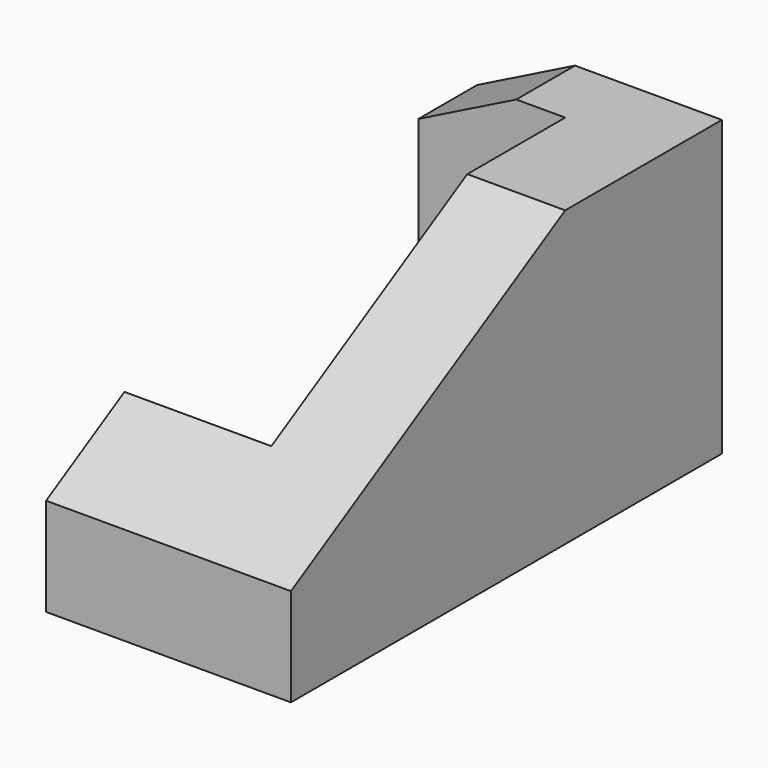
from build123d import *

# Parameters (mm, degrees)
F1_DEPTH = 60
F3_DEPTH = 60
F5_DEPTH = 15


with BuildPart() as f1:
    # F0 (on Top) → F1 (new body)
    with BuildSketch(Plane.XY):
        Polygon((-25, -55), (25, -55), (25, 55), (-25, 55), (-25, 40), (5, 40), (5, -35), (-25, -35), align=None)
    extrude(amount=F1_DEPTH)

    # F2 (on face) → F3 (cut)
    with BuildSketch(Plane.YZ.offset(25)):
        Polygon((-55, 60), (-55, 20), (15, 60), align=None)
    extrude(amount=-F3_DEPTH, mode=Mode.SUBTRACT)

    # F4 (on face) → F5 (cut)
    with BuildSketch(Plane(origin=(0, 55, 0), x_dir=(-1, 0, 0), z_dir=(0, 1, 0))):
        Polygon((25, 60), (5, 60), (25, 50), align=None)
    extrude(amount=-F5_DEPTH, mode=Mode.SUBTRACT)


solid = f1.part
